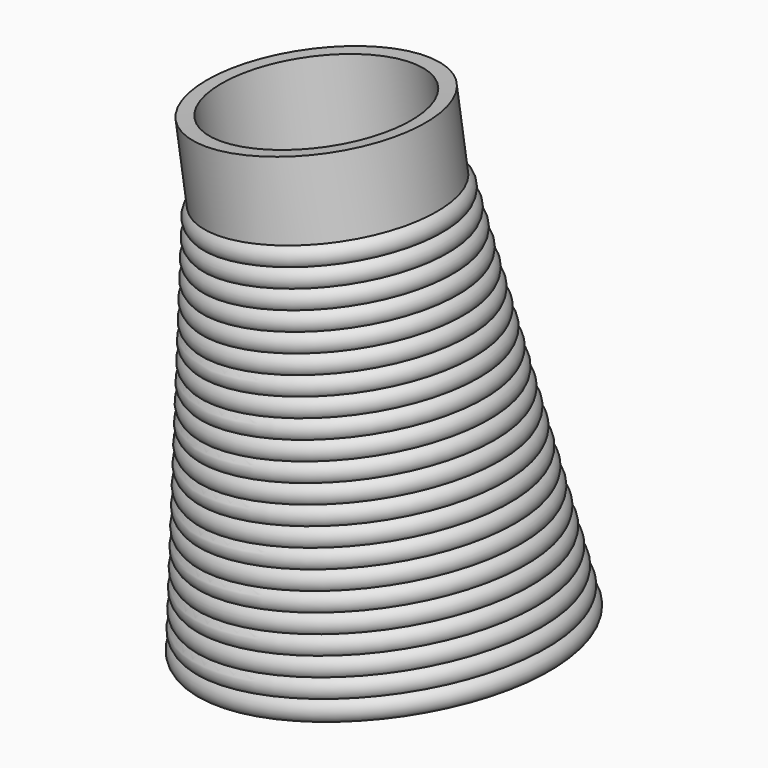
from build123d import *


with BuildPart() as f1:
    # F0 (on Front) → F1 (revolve)
    with BuildSketch(Plane.XZ):
        with BuildLine():
            ThreePointArc((-33.414703477, 12.9466022847), (-33.0764434586, 12.696503602), (-32.7036904204, 12.5015052336))
            Line((-32.7036904204, 12.5015052336), (-33.4050373304, 17.0697385294))
            ThreePointArc((-33.4050373304, 17.0697385294), (-34.3542734731, 15.0103844349), (-33.414703477, 12.9466022847))
        make_face()
        with BuildLine():
            Line((-32.7036904204, 8.3867052336), (-32.7036904204, 12.5015052336))
            ThreePointArc((-32.7036904204, 12.5015052336), (-33.0764434586, 12.696503602), (-33.414703477, 12.9466022847))
            ThreePointArc((-33.414703477, 12.9466022847), (-34.3542809541, 10.8892022847), (-33.414703477, 8.8318022847))
            ThreePointArc((-33.414703477, 8.8318022847), (-33.0764434586, 8.581703602), (-32.7036904204, 8.3867052336))
        make_face()
        with BuildLine():
            Line((-32.7036904204, 4.2719052336), (-32.7036904204, 8.3867052336))
            ThreePointArc((-32.7036904204, 8.3867052336), (-33.0764434586, 8.581703602), (-33.414703477, 8.8318022847))
            ThreePointArc((-33.414703477, 8.8318022847), (-34.3542809541, 6.7744022847), (-33.414703477, 4.7170022847))
            ThreePointArc((-33.414703477, 4.7170022847), (-33.0764434586, 4.466903602), (-32.7036904204, 4.2719052336))
        make_face()
        with BuildLine():
            Line((-32.7036904204, 0.1571052336), (-32.7036904204, 4.2719052336))
            ThreePointArc((-32.7036904204, 4.2719052336), (-33.0764434586, 4.466903602), (-33.414703477, 4.7170022847))
            ThreePointArc((-33.414703477, 4.7170022847), (-34.3542809541, 2.6596022847), (-33.414703477, 0.6022022847))
            ThreePointArc((-33.414703477, 0.6022022847), (-33.0764434586, 0.352103602), (-32.7036904204, 0.1571052336))
        make_face()
        with BuildLine():
            Line((-32.7036904204, -3.9576947664), (-32.7036904204, 0.1571052336))
            ThreePointArc((-32.7036904204, 0.1571052336), (-33.0764434586, 0.352103602), (-33.414703477, 0.6022022847))
            ThreePointArc((-33.414703477, 0.6022022847), (-34.3542809541, -1.4551977153), (-33.414703477, -3.5125977153))
            ThreePointArc((-33.414703477, -3.5125977153), (-33.0764434586, -3.762696398), (-32.7036904204, -3.9576947664))
        make_face()
        with BuildLine():
            Line((-32.7036904204, -8.0724947664), (-32.7036904204, -3.9576947664))
            ThreePointArc((-32.7036904204, -3.9576947664), (-33.0764434586, -3.762696398), (-33.414703477, -3.5125977153))
            ThreePointArc((-33.414703477, -3.5125977153), (-34.3542809541, -5.5699977153), (-33.414703477, -7.6273977153))
            ThreePointArc((-33.414703477, -7.6273977153), (-33.0764434586, -7.877496398), (-32.7036904204, -8.0724947664))
        make_face()
        with BuildLine():
            Line((-32.7036904204, -12.1872947664), (-32.7036904204, -8.0724947664))
            ThreePointArc((-32.7036904204, -8.0724947664), (-33.0764434586, -7.877496398), (-33.414703477, -7.6273977153))
            ThreePointArc((-33.414703477, -7.6273977153), (-34.3542809541, -9.6847977153), (-33.414703477, -11.7421977153))
            ThreePointArc((-33.414703477, -11.7421977153), (-33.0764434586, -11.992296398), (-32.7036904204, -12.1872947664))
        make_face()
        with BuildLine():
            Line((-32.7036904204, -16.3020947664), (-32.7036904204, -12.1872947664))
            ThreePointArc((-32.7036904204, -12.1872947664), (-33.0764434586, -11.992296398), (-33.414703477, -11.7421977153))
            ThreePointArc((-33.414703477, -11.7421977153), (-34.3542809541, -13.7995977153), (-33.414703477, -15.8569977153))
            ThreePointArc((-33.414703477, -15.8569977153), (-33.0764434586, -16.107096398), (-32.7036904204, -16.3020947664))
        make_face()
        with BuildLine():
            Line((-32.7036904204, -20.4168947664), (-32.7036904204, -16.3020947664))
            ThreePointArc((-32.7036904204, -16.3020947664), (-33.0764434586, -16.107096398), (-33.414703477, -15.8569977153))
            ThreePointArc((-33.414703477, -15.8569977153), (-34.3542809541, -17.9143977153), (-33.414703477, -19.9717977153))
            ThreePointArc((-33.414703477, -19.9717977153), (-33.0764434586, -20.221896398), (-32.7036904204, -20.4168947664))
        make_face()
        with BuildLine():
            Line((-32.7036904204, -24.5316947664), (-32.7036904204, -20.4168947664))
            ThreePointArc((-32.7036904204, -20.4168947664), (-33.0764434586, -20.221896398), (-33.414703477, -19.9717977153))
            ThreePointArc((-33.414703477, -19.9717977153), (-34.3542809541, -22.0291977153), (-33.414703477, -24.0865977153))
            ThreePointArc((-33.414703477, -24.0865977153), (-33.0764434586, -24.336696398), (-32.7036904204, -24.5316947664))
        make_face()
        with BuildLine():
            Line((-32.7036904204, -28.6464947664), (-32.7036904204, -24.5316947664))
            ThreePointArc((-32.7036904204, -24.5316947664), (-33.0764434586, -24.336696398), (-33.414703477, -24.0865977153))
            ThreePointArc((-33.414703477, -24.0865977153), (-34.3542809541, -26.1439977153), (-33.414703477, -28.2013977153))
            ThreePointArc((-33.414703477, -28.2013977153), (-33.0764434586, -28.451496398), (-32.7036904204, -28.6464947664))
        make_face()
        Polygon((-32.7036904204, 12.5015052336), (-26.4968182892, -27.9270466417), (0, -27.9270466417), (-0.4166370336, -25.2132752655), (-23.3795456588, -25.2132752655), (-32.6380919797, 35.0924008158), (-36.1084081233, 34.678183496), (-33.4050373304, 17.0697385294), align=None)
        with BuildLine():
            Line((-32.7036904204, -32.7612947664), (-32.7036904204, -28.6464947664))
            ThreePointArc((-32.7036904204, -28.6464947664), (-33.0764434586, -28.451496398), (-33.414703477, -28.2013977153))
            ThreePointArc((-33.414703477, -28.2013977153), (-34.3542809541, -30.2587977153), (-33.414703477, -32.3161977153))
            ThreePointArc((-33.414703477, -32.3161977153), (-33.0764434586, -32.566296398), (-32.7036904204, -32.7612947664))
        make_face()
        with BuildLine():
            Line((-32.7036904204, -36.8760947664), (-32.7036904204, -32.7612947664))
            ThreePointArc((-32.7036904204, -32.7612947664), (-33.0764434586, -32.566296398), (-33.414703477, -32.3161977153))
            ThreePointArc((-33.414703477, -32.3161977153), (-34.3542809541, -34.3735977153), (-33.414703477, -36.4309977153))
            ThreePointArc((-33.414703477, -36.4309977153), (-33.0764434586, -36.681096398), (-32.7036904204, -36.8760947664))
        make_face()
        with BuildLine():
            Line((-32.7036904204, -40.9908947664), (-32.7036904204, -36.8760947664))
            ThreePointArc((-32.7036904204, -36.8760947664), (-33.0764434586, -36.681096398), (-33.414703477, -36.4309977153))
            ThreePointArc((-33.414703477, -36.4309977153), (-34.3542809541, -38.4883977153), (-33.414703477, -40.5457977153))
            ThreePointArc((-33.414703477, -40.5457977153), (-33.0764434586, -40.795896398), (-32.7036904204, -40.9908947664))
        make_face()
        with BuildLine():
            Line((-32.7036904204, -45.1056947664), (-32.7036904204, -40.9908947664))
            ThreePointArc((-32.7036904204, -40.9908947664), (-33.0764434586, -40.795896398), (-33.414703477, -40.5457977153))
            ThreePointArc((-33.414703477, -40.5457977153), (-34.3542809541, -42.6031977153), (-33.414703477, -44.6605977153))
            ThreePointArc((-33.414703477, -44.6605977153), (-33.0764434586, -44.910696398), (-32.7036904204, -45.1056947664))
        make_face()
        with BuildLine():
            Line((-32.7036904204, -49.2204947664), (-32.7036904204, -45.1056947664))
            ThreePointArc((-32.7036904204, -45.1056947664), (-33.0764434586, -44.910696398), (-33.414703477, -44.6605977153))
            ThreePointArc((-33.414703477, -44.6605977153), (-34.3542809541, -46.7179977153), (-33.414703477, -48.7753977153))
            ThreePointArc((-33.414703477, -48.7753977153), (-33.0764434586, -49.025496398), (-32.7036904204, -49.2204947664))
        make_face()
        with BuildLine():
            Line((-32.7036904204, -53.3352947664), (-32.7036904204, -49.2204947664))
            ThreePointArc((-32.7036904204, -49.2204947664), (-33.0764434586, -49.025496398), (-33.414703477, -48.7753977153))
            ThreePointArc((-33.414703477, -48.7753977153), (-34.3542809541, -50.8327977153), (-33.414703477, -52.8901977153))
            ThreePointArc((-33.414703477, -52.8901977153), (-33.0764434586, -53.140296398), (-32.7036904204, -53.3352947664))
        make_face()
        with BuildLine():
            Line((-32.7036904204, -57.4500947664), (-32.7036904204, -53.3352947664))
            ThreePointArc((-32.7036904204, -53.3352947664), (-33.0764434586, -53.140296398), (-33.414703477, -52.8901977153))
            ThreePointArc((-33.414703477, -52.8901977153), (-34.3542809541, -54.9475977153), (-33.414703477, -57.0049977153))
            ThreePointArc((-33.414703477, -57.0049977153), (-33.0764434586, -57.255096398), (-32.7036904204, -57.4500947664))
        make_face()
        with BuildLine():
            Line((-32.7036904204, -61.5648947664), (-32.7036904204, -57.4500947664))
            ThreePointArc((-32.7036904204, -57.4500947664), (-33.0764434586, -57.255096398), (-33.414703477, -57.0049977153))
            ThreePointArc((-33.414703477, -57.0049977153), (-34.3542809541, -59.0623977153), (-33.414703477, -61.1197977153))
            ThreePointArc((-33.414703477, -61.1197977153), (-33.0764434586, -61.369896398), (-32.7036904204, -61.5648947664))
        make_face()
        with BuildLine():
            Line((-32.7036904204, -65.6796947664), (-32.7036904204, -61.5648947664))
            ThreePointArc((-32.7036904204, -61.5648947664), (-33.0764434586, -61.369896398), (-33.414703477, -61.1197977153))
            ThreePointArc((-33.414703477, -61.1197977153), (-34.3542809541, -63.1771977153), (-33.414703477, -65.2345977153))
            ThreePointArc((-33.414703477, -65.2345977153), (-33.0764434586, -65.484696398), (-32.7036904204, -65.6796947664))
        make_face()
        with BuildLine():
            Line((-32.7036904204, -69.7944947664), (-32.7036904204, -65.6796947664))
            ThreePointArc((-32.7036904204, -65.6796947664), (-33.0764434586, -65.484696398), (-33.414703477, -65.2345977153))
            ThreePointArc((-33.414703477, -65.2345977153), (-34.3542809541, -67.2919977153), (-33.414703477, -69.3493977153))
            ThreePointArc((-33.414703477, -69.3493977153), (-33.0764434586, -69.599496398), (-32.7036904204, -69.7944947664))
        make_face()
        with BuildLine():
            Line((-32.7036904204, -73.9092947664), (-32.7036904204, -69.7944947664))
            ThreePointArc((-32.7036904204, -69.7944947664), (-33.0764434586, -69.599496398), (-33.414703477, -69.3493977153))
            ThreePointArc((-33.414703477, -69.3493977153), (-34.3217778271, -71.8262172402), (-32.7036904204, -73.9092947664))
        make_face()
    revolve(axis=Axis((-0.2083185168, 0, -26.5701609536), (-0.1517489615, 0, 0.9884190673)))


solid = f1.part
